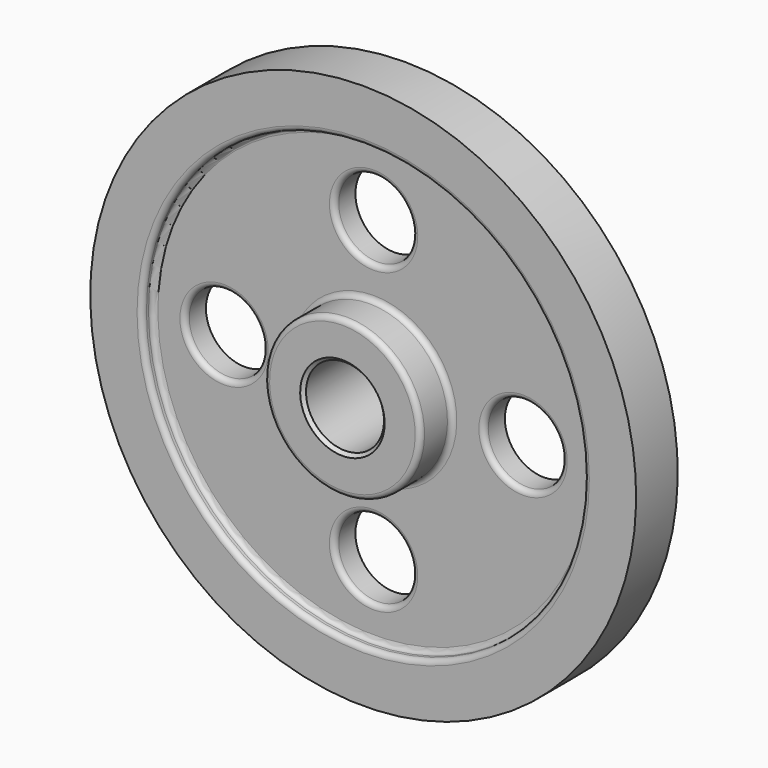
from build123d import *

# Parameters (mm, degrees)
F2_R     = 19.05
F3_DEPTH = 25.4
F4_R     = 2.54
F5_SIZE  = 1.5875


with BuildPart() as f1:
    # F0 (on Right) → F1 (revolve)
    with BuildSketch(Plane.YZ):
        Polygon((0, 19.05), (25.4, 19.05), (25.4, 38.1), (6.35, 38.1), (6.35, 107.95), (12.7, 107.95), (12.7, 133.35), (-12.7, 133.35), (-12.7, 107.95), (-6.35, 107.95), (-6.35, 38.1), (-25.4, 38.1), (-25.4, 19.05), align=None)
    revolve(axis=Axis((0, 7.4385334738, 0), (0, 1, 0)))

    # F2 (on face) → F3 (cut)
    with BuildSketch(Plane(origin=(0, 6.35, 0), x_dir=(-1, 0, 0), z_dir=(0, 1, 0))):
        with BuildLine():
            ThreePointArc((19.05, 73.025), (-13.4703841816, 86.4953841816), (0, 53.975))
            ThreePointArc((0, 53.975), (13.4703841816, 59.5546158184), (19.05, 73.025))
        make_face()
        with Locations((-73.025, 0)):
            Circle(F2_R)
        with Locations((73.025, 0)):
            Circle(F2_R)
        with Locations((0, -73.025)):
            Circle(F2_R)
    extrude(amount=-F3_DEPTH, mode=Mode.SUBTRACT)

    # F4
    f4_edges = [f1.edges().sort_by_distance(p)[0] for p in [
        (0, -6.35, -107.95),
        (-53.975, -6.35, 0),
        (19.05, -6.35, -73.025),
        (0, -6.35, -38.1),
        (0, -6.35, 92.075),
        (92.075, -6.35, 0),
        (0, -12.7, -107.95),
        (0, -25.4, -38.1),
        (0, -15.875, 38.1),
    ]]
    fillet(f4_edges, radius=F4_R)

    # F5
    f5_edges = [f1.edges().sort_by_distance(p)[0] for p in [
        (0, -25.4, -19.05),
        (0, 25.4, -19.05),
    ]]
    chamfer(f5_edges, length=F5_SIZE)


solid = f1.part
